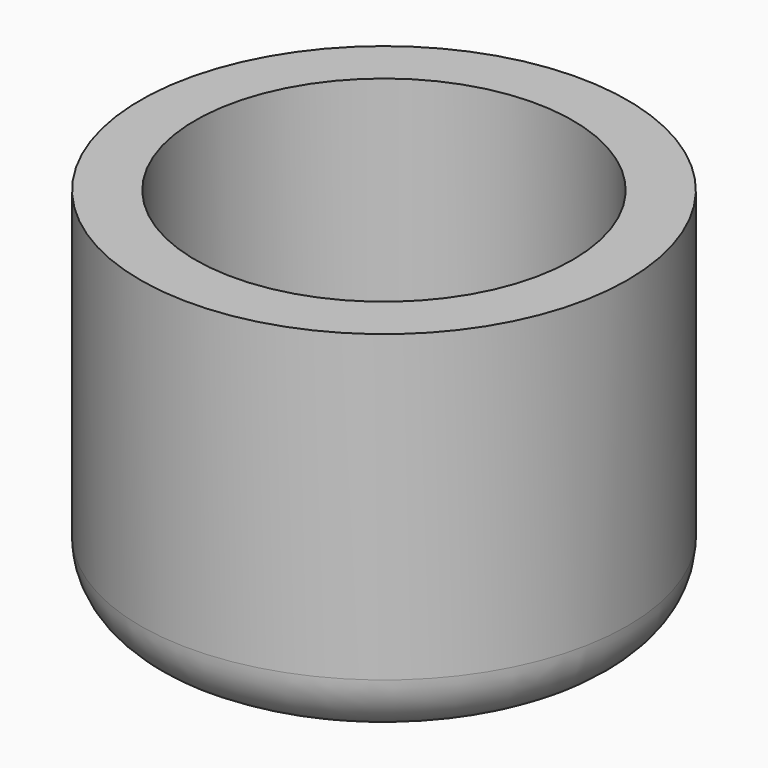
from build123d import *

# Parameters (mm, degrees)
CYLINDER_R     = 8
CYLINDER_DEPTH = 12
SKETCH_R       = 6.2
POCKET_DEPTH   = 10
FILLET_R       = 2


with BuildPart() as part:
    # Cylinder → Cylinder (new body)
    with BuildSketch(Plane.XY):
        Circle(CYLINDER_R)
    extrude(amount=CYLINDER_DEPTH)

    # Sketch → Pocket (cut)
    with BuildSketch(Plane.XY.offset(12)):
        Circle(SKETCH_R)
    extrude(amount=-POCKET_DEPTH, mode=Mode.SUBTRACT)

    # Fillet
    fillet_edges = [part.edges().sort_by_distance(p)[0] for p in [
        (-8, 0, 0),
    ]]
    fillet(fillet_edges, radius=FILLET_R)


solid = part.part
